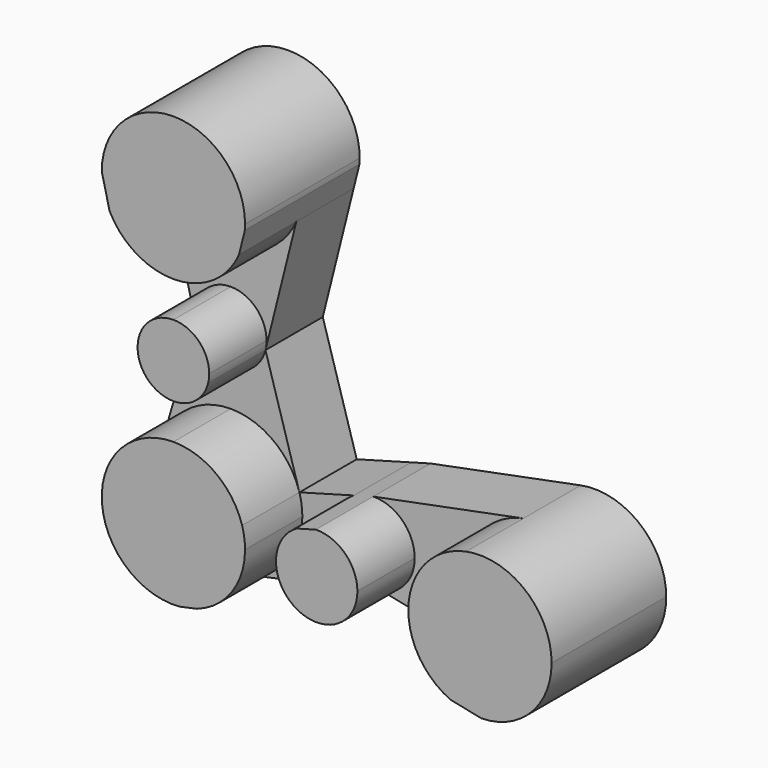
from build123d import *

# Parameters (mm, degrees)
F1_DEPTH = 50.8
F2_DEPTH = 25.4
F3_DEPTH = 25.4


with BuildPart() as f1:
    # F0 (on Front) → F1 (new body)
    with BuildSketch(Plane.XZ):
        with BuildLine():
            ThreePointArc((-135.6475204229, 2.6322072268), (-121.7575693122, 6.7665245868), (-112.3893084383, 17.8236042234))
            Line((-112.3893084383, 17.8236042234), (-110.3231574973, 26.073472326))
            ThreePointArc((-110.3231574973, 26.073472326), (-110.2664367354, 27.0521098619), (-110.2475204229, 28.0322072268))
            ThreePointArc((-110.2475204229, 28.0322072268), (-135.7106894441, 53.4321286769), (-161.0472062241, 27.9058695751))
            Line((-161.0472062241, 27.9058695751), (-158.2661160293, 16.4754285755))
            ThreePointArc((-158.2661160293, 16.4754285755), (-148.9068156956, 6.3676950266), (-135.6475204229, 2.6322072268))
        make_face()
    extrude(amount=F1_DEPTH)


with BuildPart() as f1b:
    # F0 (on Front) → F1, piece 2 (new body)
    with BuildSketch(Plane.XZ):
        with BuildLine():
            Line((-135.6475204229, -22.7677927732), (-135.6475204229, -35.4677927732))
            ThreePointArc((-135.6475204229, -35.4677927732), (-127.8338888359, -32.779643822), (-123.3280061554, -25.8531725248))
            ThreePointArc((-123.3280061554, -25.8531725248), (-123.0430007733, -24.3221686612), (-122.9475204229, -22.7677927732))
            ThreePointArc((-122.9475204229, -22.7677927732), (-126.6672643019, -13.7875366522), (-135.6475204229, -10.0677927732))
            Line((-135.6475204229, -10.0677927732), (-135.6475204229, -22.7677927732))
        make_face()
        with BuildLine():
            ThreePointArc((-147.9875222736, -25.7701842078), (-143.4948011233, -32.7532915394), (-135.6475204229, -35.4677927732))
            Line((-135.6475204229, -35.4677927732), (-135.6475204229, -22.7677927732))
            Line((-135.6475204229, -22.7677927732), (-135.6475204229, -10.0677927732))
            ThreePointArc((-135.6475204229, -10.0677927732), (-145.6330191891, -14.9205120729), (-147.9875222736, -25.7701842078))
        make_face()
    extrude(amount=F1_DEPTH)


with BuildPart() as f1c:
    # F0 (on Front) → F1, piece 3 (new body)
    with BuildSketch(Plane.XZ):
        with BuildLine():
            Line((-110.2475204229, -73.5677927732), (-135.6475204229, -73.5677927732))
            Line((-135.6475204229, -73.5677927732), (-135.6475204229, -48.1677927732))
            ThreePointArc((-135.6475204229, -48.1677927732), (-150.8466701381, -53.2172191219), (-160.0027500068, -66.3578834869))
            ThreePointArc((-160.0027500068, -66.3578834869), (-155.2704840191, -89.695387129), (-133.2915255646, -98.8582907562))
            Line((-133.2915255646, -98.8582907562), (-127.2983209217, -97.5563497888))
            ThreePointArc((-127.2983209217, -97.5563497888), (-114.9445053366, -88.2832664773), (-110.2475204229, -73.5677927732))
        make_face()
        with BuildLine():
            Line((-135.6475204229, -48.1677927732), (-135.6475204229, -73.5677927732))
            Line((-135.6475204229, -73.5677927732), (-110.2475204229, -73.5677927732))
            ThreePointArc((-110.2475204229, -73.5677927732), (-110.5119359179, -69.9123322565), (-111.299677241, -66.332978858))
            ThreePointArc((-111.299677241, -66.332978858), (-120.4587790901, -53.2094496009), (-135.6475204229, -48.1677927732))
        make_face()
    extrude(amount=F1_DEPTH)


with BuildPart() as f1d:
    # F0 (on Front) → F1, piece 4 (new body)
    with BuildSketch(Plane.XZ):
        with BuildLine():
            Line((-84.8475204229, -73.5677927732), (-99.2776616229, -73.5677927732))
            ThreePointArc((-99.2776616229, -73.5677927732), (-93.9035986696, -84.8024009925), (-81.7842192384, -87.6690395587))
            ThreePointArc((-81.7842192384, -87.6690395587), (-73.6129122036, -82.6238710199), (-70.417379223, -73.5677927732))
            Line((-70.417379223, -73.5677927732), (-77.7653604746, -73.5677927732))
            Line((-77.7653604746, -73.5677927732), (-84.8475204229, -73.5677927732))
        make_face()
        with BuildLine():
            ThreePointArc((-91.972907521, -61.0195724312), (-97.3184730125, -66.308018909), (-99.2776616229, -73.5677927732))
            Line((-99.2776616229, -73.5677927732), (-84.8475204229, -73.5677927732))
            Line((-84.8475204229, -73.5677927732), (-77.7653604746, -73.5677927732))
            Line((-77.7653604746, -73.5677927732), (-70.417379223, -73.5677927732))
            ThreePointArc((-70.417379223, -73.5677927732), (-74.7472153019, -63.2618327737), (-85.1383455726, -59.1405825168))
            Line((-85.1383455726, -59.1405825168), (-91.972907521, -61.0195724312))
        make_face()
    extrude(amount=F1_DEPTH)


with BuildPart() as f1e:
    # F0 (on Front) → F1, piece 5 (new body)
    with BuildSketch(Plane.XZ):
        with BuildLine():
            ThreePointArc((-52.3653604746, -73.5677927732), (-48.299196742, -87.3528364844), (-37.4025707016, -96.7243176135))
            Line((-37.4025707016, -96.7243176135), (-26.4341031252, -98.9622363708))
            ThreePointArc((-26.4341031252, -98.9622363708), (-8.8179923916, -91.3394846359), (-1.5653604746, -73.5677927732))
            ThreePointArc((-1.5653604746, -73.5677927732), (-10.8338702898, -53.9480317039), (-31.8752049169, -48.6468492206))
            ThreePointArc((-31.8752049169, -48.6468492206), (-46.5851215439, -57.4363025884), (-52.3653604746, -73.5677927732))
        make_face()
    extrude(amount=F1_DEPTH)


with BuildPart() as f2:
    # F0 (on Front) → F2 (new body)
    with BuildSketch(Plane.XZ):
        with BuildLine():
            Line((-158.2661160293, 16.4754285755), (-147.9875222736, -25.7701842078))
            ThreePointArc((-147.9875222736, -25.7701842078), (-145.6330191891, -14.9205120729), (-135.6475204229, -10.0677927732))
            Line((-135.6475204229, -10.0677927732), (-135.6475204229, 2.6322072268))
            ThreePointArc((-135.6475204229, 2.6322072268), (-148.9068156956, 6.3676950266), (-158.2661160293, 16.4754285755))
        make_face()
        with BuildLine():
            ThreePointArc((-122.9475204229, -22.7677927732), (-123.0430007733, -24.3221686612), (-123.3280061554, -25.8531725248))
            Line((-123.3280061554, -25.8531725248), (-112.3893084383, 17.8236042234))
            ThreePointArc((-112.3893084383, 17.8236042234), (-121.7575693122, 6.7665245868), (-135.6475204229, 2.6322072268))
            Line((-135.6475204229, 2.6322072268), (-135.6475204229, -10.0677927732))
            ThreePointArc((-135.6475204229, -10.0677927732), (-126.6672643019, -13.7875366522), (-122.9475204229, -22.7677927732))
        make_face()
    extrude(amount=F2_DEPTH)


with BuildPart() as f2b:
    # F0 (on Front) → F2, piece 2 (new body)
    with BuildSketch(Plane.XZ):
        with BuildLine():
            Line((-135.6475204229, -35.4677927732), (-135.6475204229, -48.1677927732))
            ThreePointArc((-135.6475204229, -48.1677927732), (-120.4587790901, -53.2094496009), (-111.299677241, -66.332978858))
            Line((-111.299677241, -66.332978858), (-123.3280061554, -25.8531725248))
            ThreePointArc((-123.3280061554, -25.8531725248), (-127.8338888359, -32.779643822), (-135.6475204229, -35.4677927732))
        make_face()
        with BuildLine():
            ThreePointArc((-160.0027500068, -66.3578834869), (-150.8466701381, -53.2172191219), (-135.6475204229, -48.1677927732))
            Line((-135.6475204229, -48.1677927732), (-135.6475204229, -35.4677927732))
            ThreePointArc((-135.6475204229, -35.4677927732), (-143.4948011233, -32.7532915394), (-147.9875222736, -25.7701842078))
            Line((-147.9875222736, -25.7701842078), (-160.0027500068, -66.3578834869))
        make_face()
    extrude(amount=F2_DEPTH)


with BuildPart() as f2c:
    # F0 (on Front) → F2, piece 3 (new body)
    with BuildSketch(Plane.XZ):
        with BuildLine():
            Line((-31.8752049169, -48.6468492206), (-85.1383455726, -59.1405825168))
            ThreePointArc((-85.1383455726, -59.1405825168), (-74.7472153019, -63.2618327737), (-70.417379223, -73.5677927732))
            Line((-70.417379223, -73.5677927732), (-52.3653604746, -73.5677927732))
            ThreePointArc((-52.3653604746, -73.5677927732), (-46.5851215439, -57.4363025884), (-31.8752049169, -48.6468492206))
        make_face()
        with BuildLine():
            ThreePointArc((-70.417379223, -73.5677927732), (-73.6129122036, -82.6238710199), (-81.7842192384, -87.6690395587))
            Line((-81.7842192384, -87.6690395587), (-37.4025707016, -96.7243176135))
            ThreePointArc((-37.4025707016, -96.7243176135), (-48.299196742, -87.3528364844), (-52.3653604746, -73.5677927732))
            Line((-52.3653604746, -73.5677927732), (-70.417379223, -73.5677927732))
        make_face()
    extrude(amount=F2_DEPTH)


with BuildPart() as f3:
    # F0 (on Front) → F3 (new body)
    with BuildSketch(Plane.XZ):
        with BuildLine():
            ThreePointArc((-111.299677241, -66.332978858), (-110.5119359179, -69.9123322565), (-110.2475204229, -73.5677927732))
            Line((-110.2475204229, -73.5677927732), (-99.2776616229, -73.5677927732))
            ThreePointArc((-99.2776616229, -73.5677927732), (-97.3184730125, -66.308018909), (-91.972907521, -61.0195724312))
            Line((-91.972907521, -61.0195724312), (-111.299677241, -66.332978858))
        make_face()
        with BuildLine():
            Line((-99.2776616229, -73.5677927732), (-110.2475204229, -73.5677927732))
            ThreePointArc((-110.2475204229, -73.5677927732), (-114.9445053366, -88.2832664773), (-127.2983209217, -97.5563497888))
            Line((-127.2983209217, -97.5563497888), (-81.7842192384, -87.6690395587))
            ThreePointArc((-81.7842192384, -87.6690395587), (-93.9035986696, -84.8024009925), (-99.2776616229, -73.5677927732))
        make_face()
    extrude(amount=F3_DEPTH)


solid = Compound([f1.part, f1b.part, f1c.part, f1d.part, f1e.part, f2.part, f2b.part, f2c.part, f3.part])
